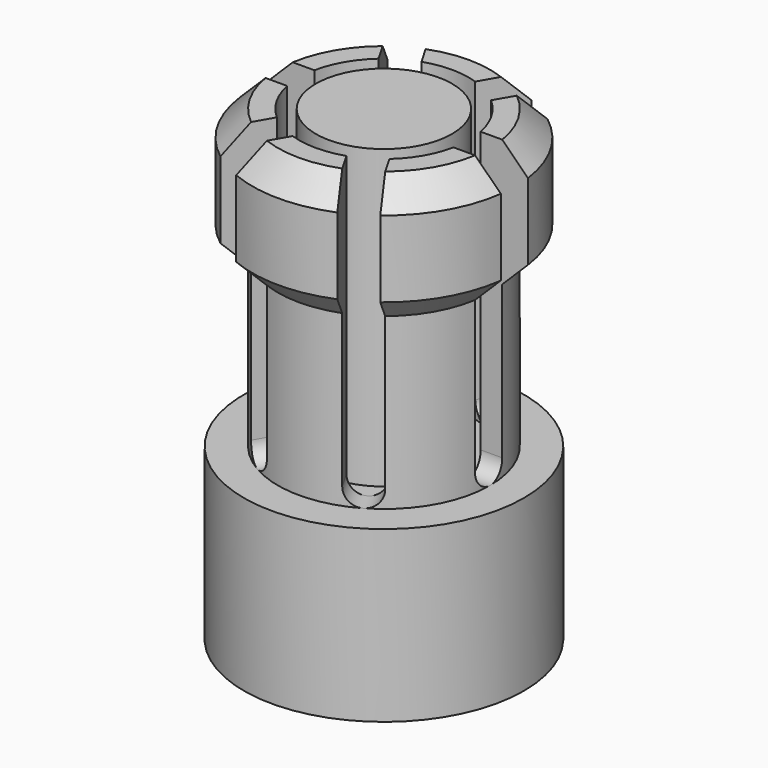
from build123d import *

# Parameters (mm, degrees)
SKETCH004_R          = 2.5
PAD001_DEPTH         = 11
POCKET003_DEPTH      = 5
POCKET003_DEPTH_BACK = 5
POLARPATTERN_COUNT   = 3
SKETCH007_R          = 2
POCKET004_DEPTH      = 7
SKETCH008_R          = 1.605124
PAD002_DEPTH         = 7


with BuildPart() as part:
    # Sketch004 → Pad001 (new body)
    with BuildSketch(Plane.XY):
        Circle(SKETCH004_R)
    extrude(amount=PAD001_DEPTH)

    # Sketch005 → Revolution (revolve)
    with BuildSketch(Plane.XZ):
        Polygon((2.5, 11), (3.1, 10.4), (3.1, 8.6), (2.5, 8), align=None)
        Polygon((2.5, 1.5), (2.3, 1.5), (2.3, 4), (3.3, 4), (3.3, 0), (2.5, 0), align=None)
    revolve(axis=Axis((0, 0, 0), (0, 0, 1)))

    # Sketch006 → Pocket003 (cut, two sides)
    with BuildSketch(Plane.YZ) as pocket003_sk:
        with BuildLine():
            ThreePointArc((-0.4, 4.4), (0, 4), (0.4, 4.4))
            Line((0.4, 4.4), (0.4, 14.4))
            ThreePointArc((0.4, 14.4), (0, 14.8), (-0.4, 14.4))
            Line((-0.4, 4.4), (-0.4, 14.4))
        make_face()
    pocket003 = extrude(amount=-POCKET003_DEPTH, mode=Mode.SUBTRACT) + extrude(pocket003_sk.sketch, amount=POCKET003_DEPTH_BACK, mode=Mode.SUBTRACT)

    # PolarPattern: Pocket003 ×3 about axis
    polarpattern_axis = Axis((0, 0, 0), (0, 0, 1))
    for i in range(1, POLARPATTERN_COUNT):
        add(pocket003.rotate(polarpattern_axis, i * 360 / POLARPATTERN_COUNT), mode=Mode.SUBTRACT)

    # Sketch007 (on Face49 of PolarPattern) → Pocket004 (cut)
    with BuildSketch(Plane.XY.offset(11)):
        Circle(SKETCH007_R)
    extrude(amount=-POCKET004_DEPTH, mode=Mode.SUBTRACT)

    # Sketch008 (on Face46 of Pocket004) → Pad002 (join)
    with BuildSketch(Plane.XY.offset(11)):
        Circle(SKETCH008_R)
    extrude(amount=-PAD002_DEPTH)


solid = part.part
